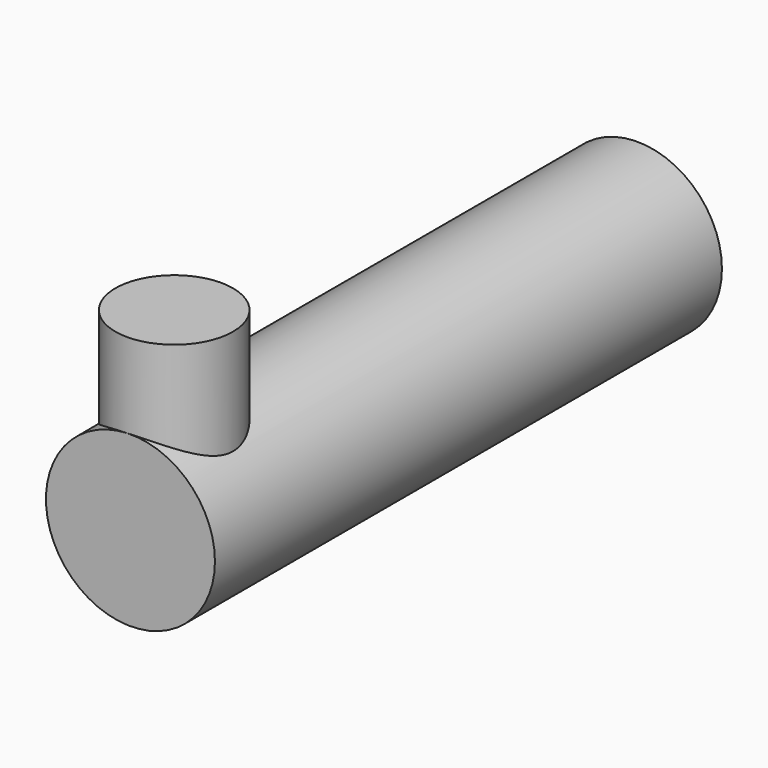
from build123d import *

# Parameters (mm, degrees)
F0_R     = 4
F1_DEPTH = 30
F3_R     = 2.785407
F4_DEPTH = 8


with BuildPart() as f1:
    # F0 (on Front) → F1 (new body)
    with BuildSketch(Plane.XZ):
        with Locations((-24.125723, 23.670521)):
            Circle(F0_R)
    extrude(amount=F1_DEPTH)

    # F3 (on face) → F4 (join)
    with BuildSketch(Plane.XY.offset(23.670521)):
        with Locations((-24.282379, -27.214593)):
            Circle(F3_R)
    extrude(amount=F4_DEPTH)


solid = f1.part
